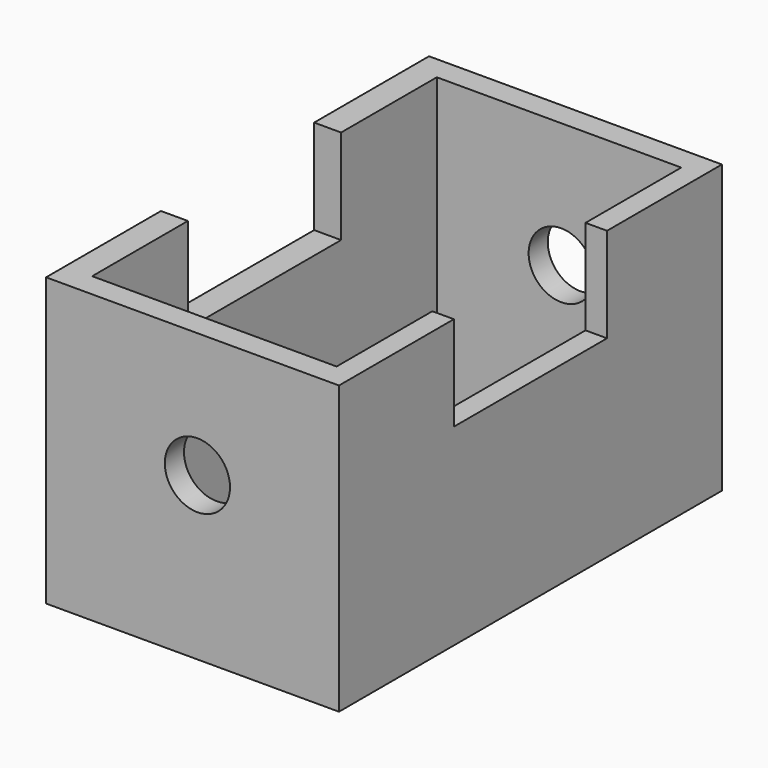
from build123d import *

# Parameters (mm, degrees)
F0_W     = 77.707555145
F0_H     = 127
F1_DEPTH = 76.2
F2_W     = 64.8572534889
F2_H     = 114.3
F3_DEPTH = 123.444
F4_R     = 8.6449584046
F5_DEPTH = 116.078
F6_W     = 50.8
F6_H     = 25.32691136
F7_DEPTH = 58.674


with BuildPart() as f1:
    # F0 (on Top) → F1 (new body)
    with BuildSketch(Plane.XY):
        with Locations((-1.2951251119, 0)):
            Rectangle(F0_W, F0_H)
    extrude(amount=F1_DEPTH)

    # F2 (on Top) → F3 (cut)
    with BuildSketch(Plane.XY):
        with Locations((-0.5756113678, 0)):
            Rectangle(F2_W, F2_H)
    extrude(amount=F3_DEPTH, mode=Mode.SUBTRACT)

    # F4 (on Front) → F5 (cut, symmetric)
    with BuildSketch(Plane.XZ):
        with Locations((0, 43.0269613862)):
            Circle(F4_R)
    extrude(amount=F5_DEPTH, both=True, mode=Mode.SUBTRACT)

    # F6 (on Right) → F7 (cut, symmetric)
    with BuildSketch(Plane.YZ):
        with Locations((0, 63.7489762157)):
            Rectangle(F6_W, F6_H)
    extrude(amount=F7_DEPTH, both=True, mode=Mode.SUBTRACT)


solid = f1.part
